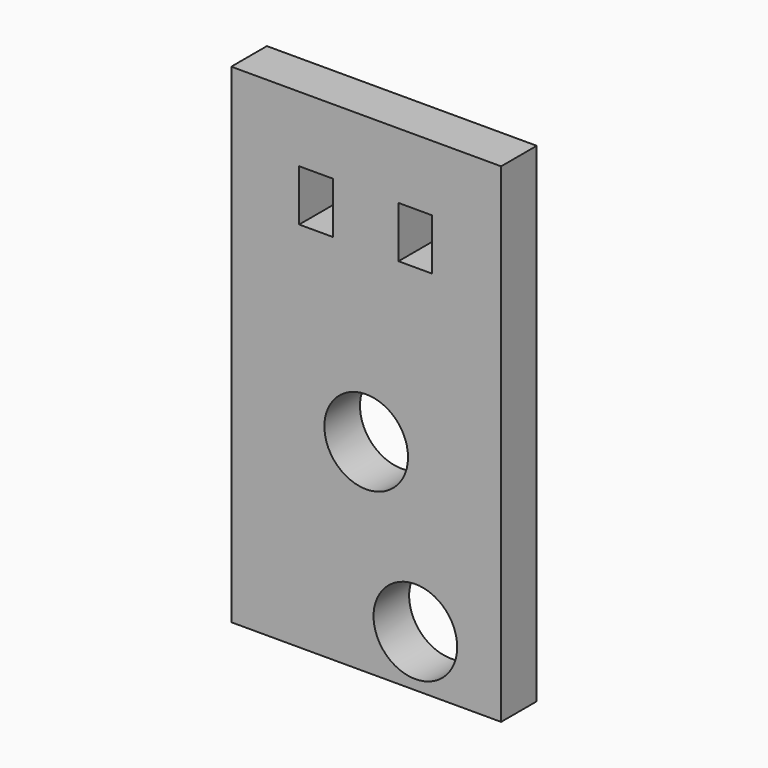
from build123d import *

# Parameters (mm, degrees)
F0_W     = 101.6
F0_H     = 184.15
F0_R     = 15.748
F0_W_2   = 12.7
F0_H_2   = 19.3294
F1_DEPTH = 16.764


with BuildPart() as f1:
    # F0 (on Front) → F1 (new body)
    with BuildSketch(Plane.XZ):
        with Locations((0, 5.400208)):
            Rectangle(F0_W, F0_H)
        with Locations((0, -10.347792)):
            Circle(F0_R, mode=Mode.SUBTRACT)
        with Locations((18.5166, -67.243792)):
            Circle(F0_R, mode=Mode.SUBTRACT)
        with Locations((-18.8849, 63.121708)):
            Rectangle(F0_W_2, F0_H_2, mode=Mode.SUBTRACT)
        with Locations((18.5166, 63.121708)):
            Rectangle(F0_W_2, F0_H_2, mode=Mode.SUBTRACT)
    extrude(amount=F1_DEPTH)


solid = f1.part
